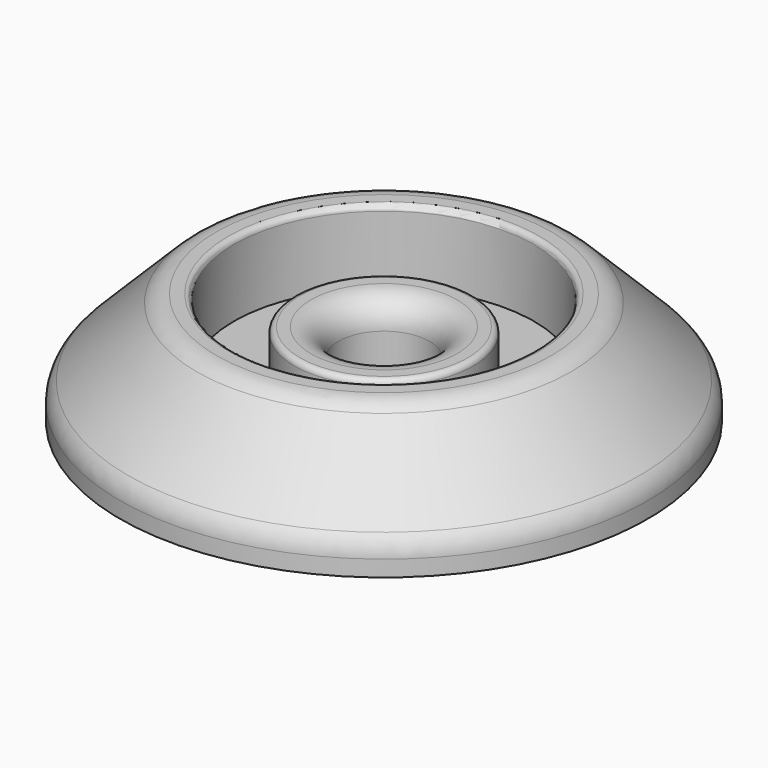
from build123d import *

# Parameters (mm, degrees)
FILLET005_R = 1
FILLET006_R = 1
FILLET007_R = 1
FILLET008_R = 0.2
FILLET009_R = 0.2


with BuildPart() as part:
    # Sketch006 → Revolution003 (revolve)
    with BuildSketch(Plane.XZ):
        Polygon((-1.654667, 64.072456), (-9.586614, 64.072456), (-9.586614, 65.072456), (-6.501082, 68.157988), (-5.452098, 68.157988), (-5.452098, 65.502701), (-3.250405, 65.502701), (-3.250405, 67.098916), (-1.654667, 67.098916), align=None)
    revolve(axis=Axis((0, 0, 0), (0, 0, 1)))

    # Fillet005
    fillet005_edges = [part.edges().sort_by_distance(p)[0] for p in [
        (6.501082, 0, 68.157988),
    ]]
    fillet(fillet005_edges, radius=FILLET005_R)

    # Fillet006
    fillet006_edges = [part.edges().sort_by_distance(p)[0] for p in [
        (9.586614, 0, 65.072456),
    ]]
    fillet(fillet006_edges, radius=FILLET006_R)

    # Fillet007
    fillet007_edges = [part.edges().sort_by_distance(p)[0] for p in [
        (1.654667, 0, 67.098916),
    ]]
    fillet(fillet007_edges, radius=FILLET007_R)

    # Fillet008
    fillet008_edges = [part.edges().sort_by_distance(p)[0] for p in [
        (5.452098, 0, 68.157988),
    ]]
    fillet(fillet008_edges, radius=FILLET008_R)

    # Fillet009
    fillet009_edges = [part.edges().sort_by_distance(p)[0] for p in [
        (3.250405, 0, 67.098916),
    ]]
    fillet(fillet009_edges, radius=FILLET009_R)


solid = part.part
